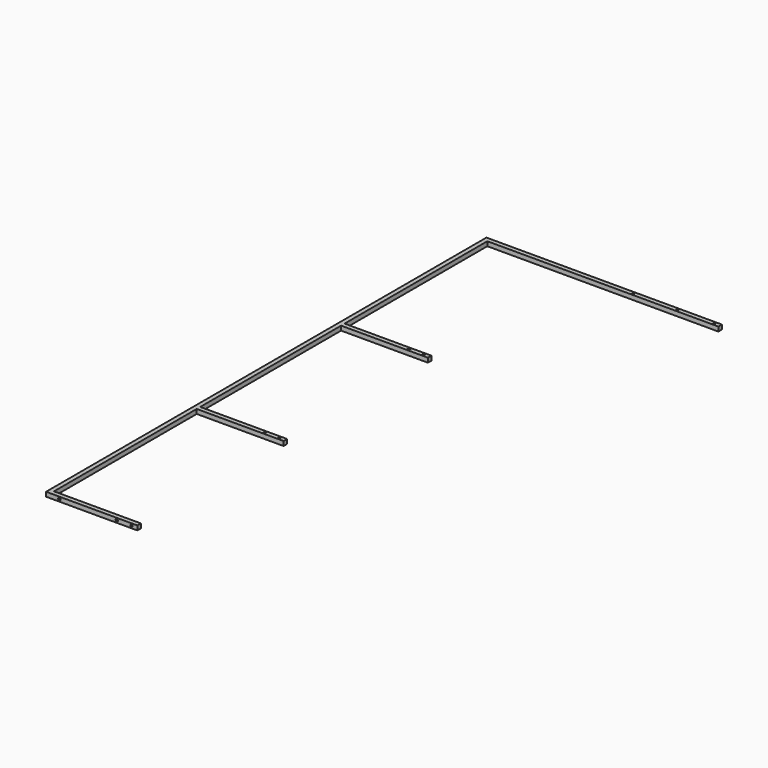
from build123d import *

# Parameters (mm, degrees)
F1_W      = 15
F1_H      = 15
F1_W_2    = 12
F1_H_2    = 12
F4_W      = 15
F4_H      = 15
F5_DEPTH  = 1.5
F6_W      = 15
F6_H      = 15
F7_DEPTH  = 1.5
F8_R      = 4
F9_DEPTH  = 15
F10_R     = 4
F11_DEPTH = 15


with BuildPart() as f2:
    # F2: sweep along a path in F0
    with BuildLine(Plane.XY) as f2_path:
        Line((310, 0), (0, 0))
        Line((0, 0), (0, 1870))
        Line((0, 1870), (800, 1870))
    # F1 (on Right) → F2 (sweep)
    with BuildSketch(Plane.YZ):
        with Locations((7.5, 7.5)):
            Rectangle(F1_W, F1_H)
        with Locations((7.5, 7.5)):
            Rectangle(F1_W_2, F1_H_2, mode=Mode.SUBTRACT)
    sweep(path=f2_path.line, transition=Transition.RIGHT)

    # F3: sweep along a path in F0
    with BuildLine(Plane.XY) as f3_path:
        Line((0, 628.5), (310, 628.5))
    # F1 (on Right) → F3 (sweep)
    with BuildSketch(Plane.YZ):
        with Locations((628.5, 7.5)):
            Rectangle(F1_W, F1_H)
        with Locations((628.5, 7.5)):
            Rectangle(F1_W_2, F1_H_2, mode=Mode.SUBTRACT)
        with Locations((1241.5, 7.5)):
            Rectangle(F1_W, F1_H)
        with Locations((1241.5, 7.5)):
            Rectangle(F1_W_2, F1_H_2, mode=Mode.SUBTRACT)
    sweep(path=f3_path.line)

    # F4 (on face) → F5 (join)
    with BuildSketch(Plane.YZ.offset(310)):
        with Locations((7.5, 7.5)):
            Rectangle(F4_W, F4_H)
        with Locations((628.5, 7.5)):
            Rectangle(F4_W, F4_H)
        with Locations((1241.5, 7.5)):
            Rectangle(F4_W, F4_H)
    extrude(amount=-F5_DEPTH)

    # F6 (on face) → F7 (join)
    with BuildSketch(Plane.YZ.offset(800)):
        with Locations((1862.5, 7.5)):
            Rectangle(F6_W, F6_H)
    extrude(amount=-F7_DEPTH)

    # F8 (on face) → F9 (cut, through all)
    with BuildSketch(Plane.XY.offset(15)):
        with Locations((290, 628.5)):
            Circle(F8_R)
        with Locations((240, 628.5)):
            Circle(F8_R)
        with Locations((290, 1241.5)):
            Circle(F8_R)
        with Locations((240, 1241.5)):
            Circle(F8_R)
        with Locations((780, 1862.5)):
            Circle(F8_R)
        with Locations((655, 1862.5)):
            Circle(F8_R)
        with Locations((505, 1862.5)):
            Circle(F8_R)
    extrude(amount=-F9_DEPTH, mode=Mode.SUBTRACT)

    # F10 (on face) → F11 (cut, through all)
    with BuildSketch(Plane.XZ):
        with Locations((290, 7.5)):
            Circle(F10_R)
        with Locations((240, 7.5)):
            Circle(F10_R)
        with Locations((45, 7.5)):
            Circle(F10_R)
    extrude(amount=-F11_DEPTH, mode=Mode.SUBTRACT)


solid = f2.part
